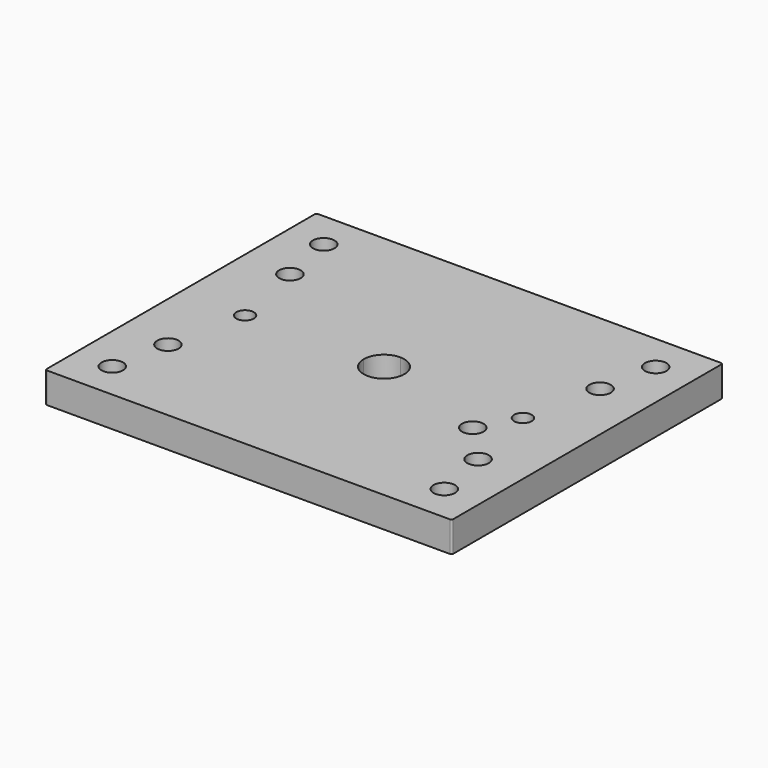
from build123d import *

# Parameters (mm, degrees)
F0_R     = 3.175
F1_DEPTH = 9
F2_DEPTH = 3
F4_R     = 0.5


with BuildPart() as f1:
    # F0 (on Top) → F1 (new body)
    with BuildSketch(Plane.XY):
        with BuildLine():
            Line((0, 17.5), (0, 50))
            Line((0, 50), (-60, 50))
            Line((-60, 50), (-60, 0))
            Line((-60, 0), (-46, 0))
            ThreePointArc((-46, 0), (-41, 5), (-36, 0))
            Line((-36, 0), (-17.5, 0))
            ThreePointArc((-17.5, 0), (-12.3743686708, 12.3743686708), (0, 17.5))
        make_face()
        with Locations((-45.768439, 22.5)):
            Circle(F0_R, mode=Mode.SUBTRACT)
        with Locations((-49, 39)):
            Circle(F0_R, mode=Mode.SUBTRACT)
        with BuildLine():
            Line((60, 50), (0, 50))
            Line((0, 50), (0, 17.5))
            ThreePointArc((0, 17.5), (12.3743686708, 12.3743686708), (17.5, 0))
            Line((17.5, 0), (36, 0))
            ThreePointArc((36, 0), (41, 5), (46, 0))
            Line((46, 0), (60, 0))
            Line((60, 0), (60, 50))
        make_face()
        with Locations((45.768439, 22.5)):
            Circle(F0_R, mode=Mode.SUBTRACT)
        with Locations((49, 39)):
            Circle(F0_R, mode=Mode.SUBTRACT)
        with BuildLine():
            Line((36, 0), (17.5, 0))
            ThreePointArc((17.5, 0), (12.3743686708, -12.3743686708), (0, -17.5))
            Line((0, -17.5), (0, -50))
            Line((0, -50), (60, -50))
            Line((60, -50), (60, 0))
            Line((60, 0), (46, 0))
            ThreePointArc((46, 0), (44.2486753365, -3.8008036726), (40.2215565768, -4.9390308601))
            ThreePointArc((40.2215565768, -4.9390308601), (42.2722916819, -7.6662673034), (43, -11))
            ThreePointArc((43, -11), (28.5909784575, -15.7879476676), (37.268889283, -3.3284850635))
            ThreePointArc((37.268889283, -3.3284850635), (36.3279793673, -1.7810736109), (36, 0))
        make_face()
        with Locations((49, -39)):
            Circle(F0_R, mode=Mode.SUBTRACT)
        with Locations((45.768439, -22.5)):
            Circle(F0_R, mode=Mode.SUBTRACT)
        with BuildLine():
            ThreePointArc((0, -17.5), (-12.3743686708, -12.3743686708), (-17.5, 0))
            Line((-17.5, 0), (-36, 0))
            ThreePointArc((-36, 0), (-41, -5), (-46, 0))
            Line((-46, 0), (-60, 0))
            Line((-60, 0), (-60, -50))
            Line((-60, -50), (0, -50))
            Line((0, -50), (0, -17.5))
        make_face()
        with Locations((-49, -39)):
            Circle(F0_R, mode=Mode.SUBTRACT)
        with Locations((-45.768439, -22.5)):
            Circle(F0_R, mode=Mode.SUBTRACT)
        with BuildLine():
            ThreePointArc((40.2215565768, -4.9390308601), (38.6057393466, -4.3894778646), (37.268889283, -3.3284850635))
            ThreePointArc((37.268889283, -3.3284850635), (28.5909784575, -15.7879476676), (43, -11))
            ThreePointArc((43, -11), (42.2722916819, -7.6662673034), (40.2215565768, -4.9390308601))
        make_face()
        with Locations((35, -11)):
            Circle(F0_R, mode=Mode.SUBTRACT)
        with BuildLine():
            Line((38.42, 0), (36, 0))
            ThreePointArc((36, 0), (36.3279793673, -1.7810736109), (37.268889283, -3.3284850635))
            ThreePointArc((37.268889283, -3.3284850635), (38.8308170454, -3.9768354167), (40.2215565768, -4.9390308601))
            ThreePointArc((40.2215565768, -4.9390308601), (44.2486753365, -3.8008036726), (46, 0))
            Line((46, 0), (43.58, 0))
            ThreePointArc((43.58, 0), (41, -2.58), (38.42, 0))
        make_face()
        with BuildLine():
            ThreePointArc((46, 0), (41, 5), (36, 0))
            Line((36, 0), (38.42, 0))
            ThreePointArc((38.42, 0), (41, 2.58), (43.58, 0))
            Line((43.58, 0), (46, 0))
        make_face()
        with BuildLine():
            Line((-38.42, 0), (-36, 0))
            ThreePointArc((-36, 0), (-41, 5), (-46, 0))
            Line((-46, 0), (-43.58, 0))
            ThreePointArc((-43.58, 0), (-41, 2.58), (-38.42, 0))
        make_face()
        with BuildLine():
            ThreePointArc((-46, 0), (-41, -5), (-36, 0))
            Line((-36, 0), (-38.42, 0))
            ThreePointArc((-38.42, 0), (-41, -2.58), (-43.58, 0))
            Line((-43.58, 0), (-46, 0))
        make_face()
        with BuildLine():
            ThreePointArc((40.2215565768, -4.9390308601), (38.8308170454, -3.9768354167), (37.268889283, -3.3284850635))
            ThreePointArc((37.268889283, -3.3284850635), (38.6057393466, -4.3894778646), (40.2215565768, -4.9390308601))
        make_face()
        with BuildLine():
            Line((0, 6), (0, 17.5))
            ThreePointArc((0, 17.5), (-12.3743686708, 12.3743686708), (-17.5, 0))
            Line((-17.5, 0), (-6, 0))
            ThreePointArc((-6, 0), (-4.2426406871, 4.2426406871), (0, 6))
        make_face()
        with BuildLine():
            ThreePointArc((17.5, 0), (12.3743686708, 12.3743686708), (0, 17.5))
            Line((0, 17.5), (0, 6))
            ThreePointArc((0, 6), (4.2426406871, 4.2426406871), (6, 0))
            Line((6, 0), (17.5, 0))
        make_face()
        with BuildLine():
            ThreePointArc((0, -17.5), (12.3743686708, -12.3743686708), (17.5, 0))
            Line((17.5, 0), (6, 0))
            ThreePointArc((6, 0), (4.2426406871, -4.2426406871), (0, -6))
            Line((0, -6), (0, -17.5))
        make_face()
        with BuildLine():
            Line((-6, 0), (-17.5, 0))
            ThreePointArc((-17.5, 0), (-12.3743686708, -12.3743686708), (0, -17.5))
            Line((0, -17.5), (0, -6))
            ThreePointArc((0, -6), (-4.2426406871, -4.2426406871), (-6, 0))
        make_face()
    extrude(amount=F1_DEPTH)


with BuildPart() as f2:
    # F0 (on Top) → F2 (new body)
    with BuildSketch(Plane.XY):
        with BuildLine():
            Line((38.42, 0), (36, 0))
            ThreePointArc((36, 0), (36.3279793673, -1.7810736109), (37.268889283, -3.3284850635))
            ThreePointArc((37.268889283, -3.3284850635), (38.8308170454, -3.9768354167), (40.2215565768, -4.9390308601))
            ThreePointArc((40.2215565768, -4.9390308601), (44.2486753365, -3.8008036726), (46, 0))
            Line((46, 0), (43.58, 0))
            ThreePointArc((43.58, 0), (41, -2.58), (38.42, 0))
        make_face()
        with BuildLine():
            ThreePointArc((46, 0), (41, 5), (36, 0))
            Line((36, 0), (38.42, 0))
            ThreePointArc((38.42, 0), (41, 2.58), (43.58, 0))
            Line((43.58, 0), (46, 0))
        make_face()
        with BuildLine():
            ThreePointArc((40.2215565768, -4.9390308601), (38.8308170454, -3.9768354167), (37.268889283, -3.3284850635))
            ThreePointArc((37.268889283, -3.3284850635), (38.6057393466, -4.3894778646), (40.2215565768, -4.9390308601))
        make_face()
    extrude(amount=F2_DEPTH)


with BuildPart() as f2b:
    # F0 (on Top) → F2, piece 2 (new body)
    with BuildSketch(Plane.XY):
        with BuildLine():
            Line((-38.42, 0), (-36, 0))
            ThreePointArc((-36, 0), (-41, 5), (-46, 0))
            Line((-46, 0), (-43.58, 0))
            ThreePointArc((-43.58, 0), (-41, 2.58), (-38.42, 0))
        make_face()
        with BuildLine():
            ThreePointArc((-46, 0), (-41, -5), (-36, 0))
            Line((-36, 0), (-38.42, 0))
            ThreePointArc((-38.42, 0), (-41, -2.58), (-43.58, 0))
            Line((-43.58, 0), (-46, 0))
        make_face()
    extrude(amount=F2_DEPTH)


with BuildPart() as f1_1:
    add(f1.part)

    # F3: cut F2b, F2
    add(f2b.part, mode=Mode.SUBTRACT)
    add(f2.part, mode=Mode.SUBTRACT)

    # F4
    f4_edges = [f1_1.edges().sort_by_distance(p)[0] for p in [
        (60, 50, 4.5),
        (60, -50, 4.5),
        (-60, 50, 4.5),
        (-60, -50, 4.5),
    ]]
    fillet(f4_edges, radius=F4_R)


solid = f1_1.part
